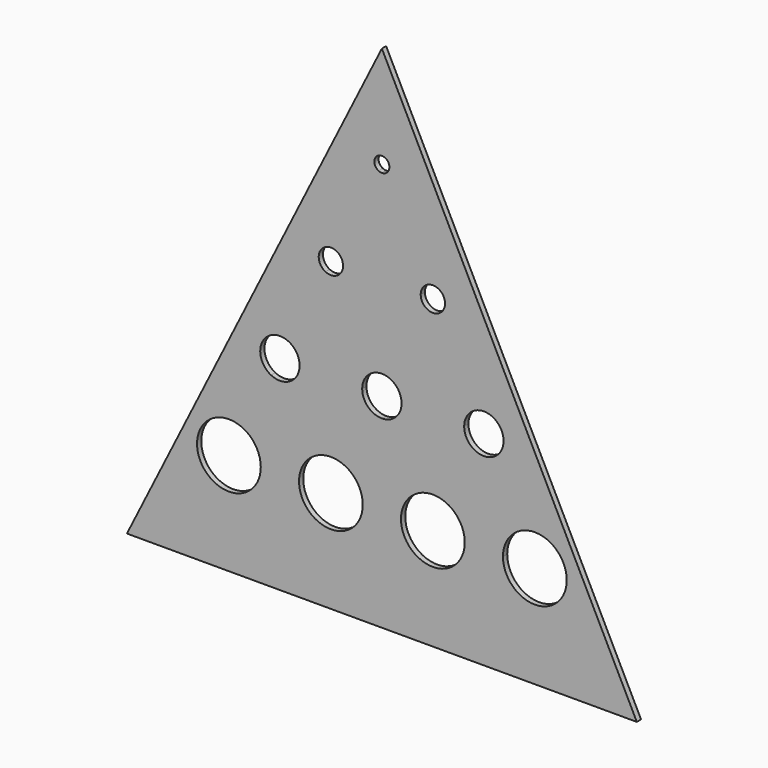
from build123d import *

# Parameters (mm, degrees)
F1_DEPTH = 12.7
F3_DEPTH = 12.7


with BuildPart() as f1:
    # F0 (on Front) → F1 (new body)
    with BuildSketch(Plane.XZ):
        Polygon((-609.6, -609.6), (609.6, -609.6), (0, 609.6), align=None)
    extrude(amount=F1_DEPTH)

    # F2 (on face) → F3 (cut)
    with BuildSketch(Plane.XZ.offset(12.7)):
        with BuildLine():
            ThreePointArc((17.98838, 365.76), (12.719705, 378.479705), (0, 383.74838))
            Line((0, 383.74838), (0, 365.76))
            Line((0, 365.76), (8.044648, 349.670704))
            ThreePointArc((8.044648, 349.670704), (15.30183, 356.302949), (17.98838, 365.76))
        make_face()
        with BuildLine():
            Line((0, 365.76), (0, 383.74838))
            ThreePointArc((0, 383.74838), (-17.507173, 369.892883), (-8.044648, 349.670704))
            Line((-8.044648, 349.670704), (0, 365.76))
        make_face()
        with BuildLine():
            Line((0, 347.77162), (0, 365.76))
            Line((0, 365.76), (-8.044648, 349.670704))
            ThreePointArc((-8.044648, 349.670704), (-4.132883, 348.252827), (0, 347.77162))
        make_face()
        with BuildLine():
            Line((8.044648, 349.670704), (0, 365.76))
            Line((0, 365.76), (0, 347.77162))
            ThreePointArc((0, 347.77162), (4.132883, 348.252827), (8.044648, 349.670704))
        make_face()
        with BuildLine():
            Line((-121.92, 121.92), (-108.903486, 147.953028))
            ThreePointArc((-108.903486, 147.953028), (-147.953028, 134.936514), (-134.936514, 95.886972))
            Line((-134.936514, 95.886972), (-121.92, 121.92))
        make_face()
        with BuildLine():
            Line((-92.81419, 121.92), (-121.92, 121.92))
            Line((-121.92, 121.92), (-134.936514, 95.886972))
            ThreePointArc((-134.936514, 95.886972), (-106.61817, 97.161119), (-92.81419, 121.92))
        make_face()
        with BuildLine():
            ThreePointArc((-92.81419, 121.92), (-97.161119, 137.22183), (-108.903486, 147.953028))
            Line((-108.903486, 147.953028), (-121.92, 121.92))
            Line((-121.92, 121.92), (-92.81419, 121.92))
        make_face()
        with BuildLine():
            ThreePointArc((151.02581, 121.92), (137.22183, 146.678881), (108.903486, 147.953028))
            Line((108.903486, 147.953028), (121.92, 121.92))
            Line((121.92, 121.92), (134.936514, 95.886972))
            ThreePointArc((134.936514, 95.886972), (146.678881, 106.61817), (151.02581, 121.92))
        make_face()
        with BuildLine():
            Line((121.92, 121.92), (92.81419, 121.92))
            ThreePointArc((92.81419, 121.92), (106.61817, 97.161119), (134.936514, 95.886972))
            Line((134.936514, 95.886972), (121.92, 121.92))
        make_face()
        with BuildLine():
            Line((121.92, 121.92), (108.903486, 147.953028))
            ThreePointArc((108.903486, 147.953028), (97.161119, 137.22183), (92.81419, 121.92))
            Line((92.81419, 121.92), (121.92, 121.92))
        make_face()
        with BuildLine():
            ThreePointArc((-331.682324, -297.604648), (-430.579592, -405.820711), (-289.56, -365.76))
            Line((-289.56, -365.76), (-365.76, -365.76))
            Line((-365.76, -365.76), (-331.682324, -297.604648))
        make_face()
        with BuildLine():
            Line((-365.76, -365.76), (-289.56, -365.76))
            ThreePointArc((-289.56, -365.76), (-300.940408, -325.699289), (-331.682324, -297.604648))
            Line((-331.682324, -297.604648), (-365.76, -365.76))
        make_face()
        with BuildLine():
            ThreePointArc((-196.74581, -121.92), (-203.779289, -97.161119), (-222.778838, -79.797676))
            Line((-222.778838, -79.797676), (-243.84, -121.92))
            Line((-243.84, -121.92), (-196.74581, -121.92))
        make_face()
        with BuildLine():
            Line((-196.74581, -121.92), (-243.84, -121.92))
            Line((-243.84, -121.92), (-264.901162, -164.042324))
            ThreePointArc((-264.901162, -164.042324), (-219.081119, -161.980711), (-196.74581, -121.92))
        make_face()
        with BuildLine():
            Line((-243.84, -121.92), (-222.778838, -79.797676))
            ThreePointArc((-222.778838, -79.797676), (-285.962324, -100.858838), (-264.901162, -164.042324))
            Line((-264.901162, -164.042324), (-243.84, -121.92))
        make_face()
        with BuildLine():
            Line((0, -121.92), (0, -74.82581))
            ThreePointArc((0, -74.82581), (-33.300621, -88.619379), (-47.09419, -121.92))
            Line((-47.09419, -121.92), (0, -121.92))
        make_face()
        with BuildLine():
            ThreePointArc((47.09419, -121.92), (33.300621, -88.619379), (0, -74.82581))
            Line((0, -74.82581), (0, -121.92))
            Line((0, -121.92), (47.09419, -121.92))
        make_face()
        with BuildLine():
            Line((0, -121.92), (0, -169.01419))
            ThreePointArc((0, -169.01419), (33.300621, -155.220621), (47.09419, -121.92))
            Line((47.09419, -121.92), (0, -121.92))
        make_face()
        with BuildLine():
            ThreePointArc((-47.09419, -121.92), (-33.300621, -155.220621), (0, -169.01419))
            Line((0, -169.01419), (0, -121.92))
            Line((0, -121.92), (-47.09419, -121.92))
        make_face()
        with BuildLine():
            Line((243.84, -121.92), (196.74581, -121.92))
            ThreePointArc((196.74581, -121.92), (219.081119, -161.980711), (264.901162, -164.042324))
            Line((264.901162, -164.042324), (243.84, -121.92))
        make_face()
        with BuildLine():
            ThreePointArc((290.93419, -121.92), (268.598881, -81.859289), (222.778838, -79.797676))
            Line((222.778838, -79.797676), (243.84, -121.92))
            Line((243.84, -121.92), (264.901162, -164.042324))
            ThreePointArc((264.901162, -164.042324), (283.900711, -146.678881), (290.93419, -121.92))
        make_face()
        with BuildLine():
            ThreePointArc((222.778838, -79.797676), (203.779289, -97.161119), (196.74581, -121.92))
            Line((196.74581, -121.92), (243.84, -121.92))
            Line((243.84, -121.92), (222.778838, -79.797676))
        make_face()
        with BuildLine():
            Line((365.76, -365.76), (289.56, -365.76))
            ThreePointArc((289.56, -365.76), (365.76, -441.96), (441.96, -365.76))
            ThreePointArc((441.96, -365.76), (405.820711, -300.940408), (331.682324, -297.604648))
            Line((331.682324, -297.604648), (365.76, -365.76))
        make_face()
        with BuildLine():
            ThreePointArc((331.682324, -297.604648), (300.940408, -325.699289), (289.56, -365.76))
            Line((289.56, -365.76), (365.76, -365.76))
            Line((365.76, -365.76), (331.682324, -297.604648))
        make_face()
        with BuildLine():
            ThreePointArc((198.12, -365.76), (121.92, -289.56), (45.72, -365.76))
            Line((45.72, -365.76), (121.92, -365.76))
            Line((121.92, -365.76), (198.12, -365.76))
        make_face()
        with BuildLine():
            Line((121.92, -365.76), (45.72, -365.76))
            ThreePointArc((45.72, -365.76), (121.92, -441.96), (198.12, -365.76))
            Line((198.12, -365.76), (121.92, -365.76))
        make_face()
        with BuildLine():
            ThreePointArc((-198.12, -365.76), (-121.92, -441.96), (-45.72, -365.76))
            Line((-45.72, -365.76), (-121.92, -365.76))
            Line((-121.92, -365.76), (-198.12, -365.76))
        make_face()
        with BuildLine():
            Line((-121.92, -365.76), (-45.72, -365.76))
            ThreePointArc((-45.72, -365.76), (-121.92, -289.56), (-198.12, -365.76))
            Line((-198.12, -365.76), (-121.92, -365.76))
        make_face()
    extrude(amount=-F3_DEPTH, mode=Mode.SUBTRACT)


solid = f1.part
